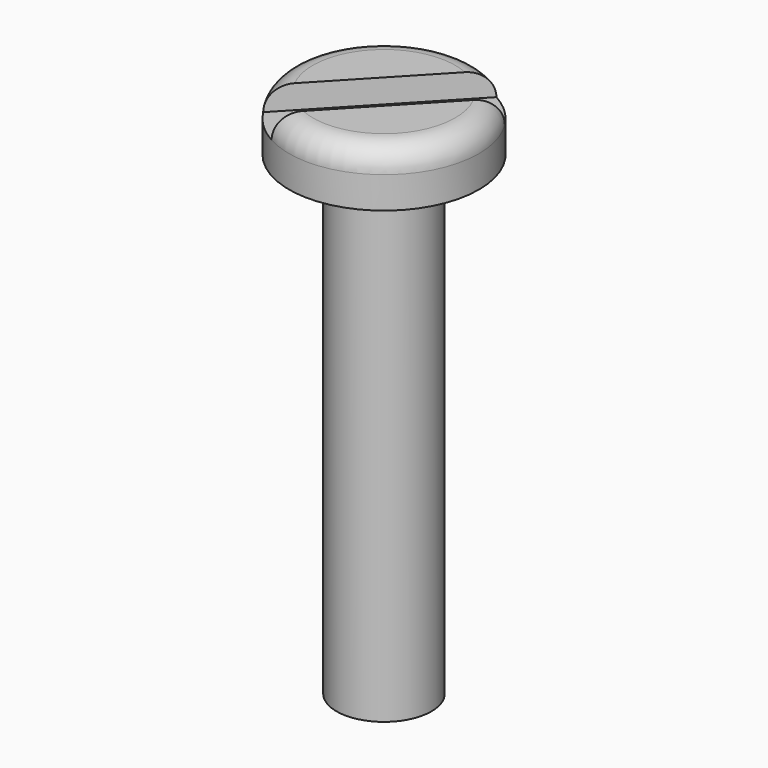
from build123d import *

# Parameters (mm, degrees)
POCKET_DEPTH = 0.75


with BuildPart() as part:
    # Sketch → Revolution (revolve)
    with BuildSketch(Plane.XZ):
        with BuildLine():
            Line((0, 0), (0, 16.75))
            Line((0, 16.75), (2.25, 16.75))
            ThreePointArc((3, 16), (2.78033, 16.53033), (2.25, 16.75))
            Line((3, 16), (3, 15))
            Line((3, 15), (1.5, 15))
            Line((1.5, 15), (1.5, 0))
            Line((1.5, 0), (0, 0))
        make_face()
    revolve(axis=Axis((0, 0, 0), (0, 0, 1)))

    # Sketch001 (on Face5 of Revolution) → Pocket (cut)
    with BuildSketch(Plane(origin=(0, 0, 16.75), x_dir=(-1, 0, 0), z_dir=(0, 0, 1))):
        Polygon((-3.274783, -2.372712), (2.184691, 3.4031), (3.274783, 2.372712), (-2.184691, -3.4031), align=None)
    extrude(amount=-POCKET_DEPTH, mode=Mode.SUBTRACT)


solid = part.part
